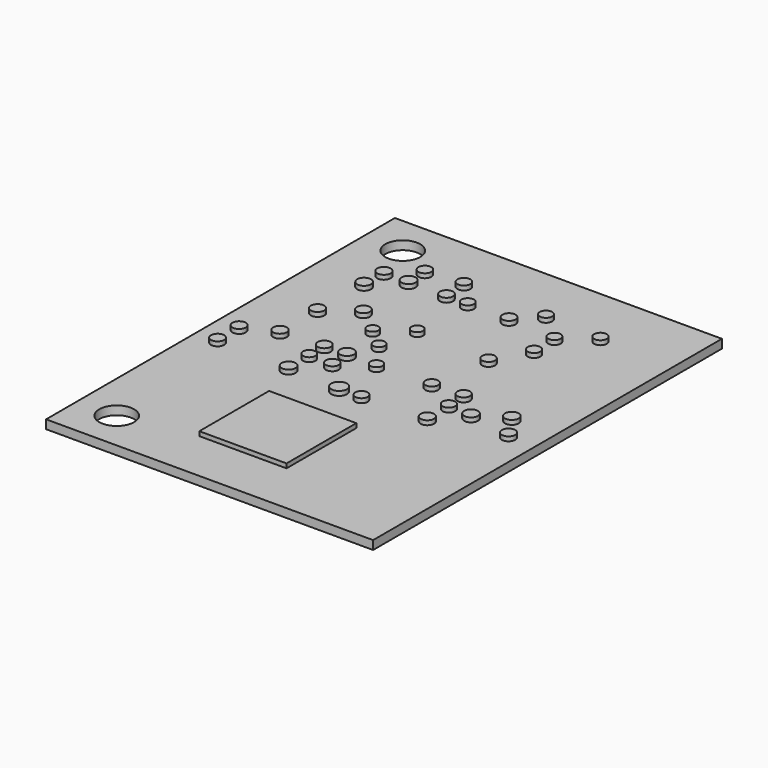
from build123d import *

# Parameters (mm, degrees)
F0_W     = 75
F0_H     = 100
F0_R     = 4
F1_DEPTH = 2
F2_R     = 1.488645
F2_R_2   = 1.606126
F2_R_3   = 1.534461
F2_R_4   = 1.584424
F2_R_5   = 1.423245
F2_R_6   = 1.488648
F2_R_7   = 1.500232
F2_R_8   = 1.423244
F2_R_9   = 1.447369
F2_R_10  = 1.423248
F2_R_11  = 1.471098
F2_R_12  = 1.31579
F2_R_13  = 1.295903
F2_R_14  = 1.322351
F2_R_15  = 1.500231
F2_R_16  = 1.511729
F2_R_17  = 1.54842
F2_R_18  = 1.589873
F2_R_19  = 1.41715
F2_R_20  = 1.500233
F2_R_21  = 1.584419
F2_R_22  = 1.471097
F2_R_23  = 1.789667
F2_R_24  = 1.417148
F2_R_25  = 1.373724
F2_R_26  = 1.453339
F2_R_27  = 1.453337
F2_R_28  = 1.540092
F2_R_29  = 1.578949
F2_R_30  = 1.58442
F2_W     = 20
F2_H     = 20
F3_DEPTH = 1


with BuildPart() as f1:
    # F0 (on Top) → F1 (new body)
    with BuildSketch(Plane.XY):
        with Locations((-25.098507, 1.307381)):
            Rectangle(F0_W, F0_H)
        with Locations((-53.598507, -39.692619)):
            Circle(F0_R, mode=Mode.SUBTRACT)
        with Locations((-53.598507, 42.307381)):
            Circle(F0_R, mode=Mode.SUBTRACT)
    extrude(amount=F1_DEPTH)

    # F2 (on face) → F3 (join)
    with BuildSketch(Plane.XY.offset(2)):
        with Locations((-44.722805, 37.565327)):
            Circle(F2_R)
        with Locations((-44.459649, 32.565324)):
            Circle(F2_R_2)
        with Locations((-50.117543, 32.565324)):
            Circle(F2_R_3)
        with Locations((-50.249123, 27.039008)):
            Circle(F2_R_4)
        with Locations((-30.907015, 32.565324)):
            Circle(F2_R_5)
        with Locations((-35.775438, 32.565324)):
            Circle(F2_R_6)
        with Locations((-36.301753, 38.223218)):
            Circle(F2_R)
        with Locations((-21.43333, 32.565324)):
            Circle(F2_R_7)
        with Locations((-16.959648, 37.565327)):
            Circle(F2_R_8)
        with Locations((-10.117541, 25.591639)):
            Circle(F2_R_9)
        with Locations((-10.3807, 31.775849)):
            Circle(F2_R_10)
        with Locations((-3.933329, 36.907431)):
            Circle(F2_R_11)
        with Locations((-50.380697, 13.881114)):
            Circle(F2_R_3)
        with Locations((-43.670172, 18.617956)):
            Circle(F2_R_7)
        with Locations((-33.143856, 9.933747)):
            Circle(F2_R_12)
        with Locations((-37.749118, 13.881114)):
            Circle(F2_R_13)
        with Locations((-31.433328, 18.749537)):
            Circle(F2_R_14)
        with Locations((-14.328065, 17.828483)):
            Circle(F2_R_11)
        with Locations((-57.222803, -6.250465)):
            Circle(F2_R_15)
        with Locations((-57.222807, -0.066254)):
            Circle(F2_R_16)
        with Locations((-50.380698, 3.091641)):
            Circle(F2_R_17)
        with Locations((-40.512276, -6.77678)):
            Circle(F2_R_18)
        with Locations((-40.512276, -0.855728)):
            Circle(F2_R_19)
        with Locations((-40.643856, 3.617957)):
            Circle(F2_R_20)
        with Locations((-35.643857, 3.881114)):
            Circle(F2_R_21)
        with Locations((-35.117541, -0.987307)):
            Circle(F2_R_22)
        with Locations((-28.407016, -7.434676)):
            Circle(F2_R_23)
        with Locations((-23.275436, -7.434676)):
            Circle(F2_R_24)
        with Locations((-28.670174, 3.617957)):
            Circle(F2_R_25)
        with Locations((-16.301753, 4.012693)):
            Circle(F2_R_26)
        with Locations((-9.196488, 4.275852)):
            Circle(F2_R_27)
        with Locations((-8.801751, -0.460991)):
            Circle(F2_R_27)
        with Locations((-8.801751, -6.645201)):
            Circle(F2_R_28)
        with Locations((-3.407016, -0.855728)):
            Circle(F2_R_29)
        with Locations((2.908776, 2.960063)):
            Circle(F2_R_30)
        with Locations((6.461407, -2.434675)):
            Circle(F2_R_3)
        with Locations((-27.091225, -26.645203)):
            Rectangle(F2_W, F2_H)
    extrude(amount=F3_DEPTH)


solid = f1.part
